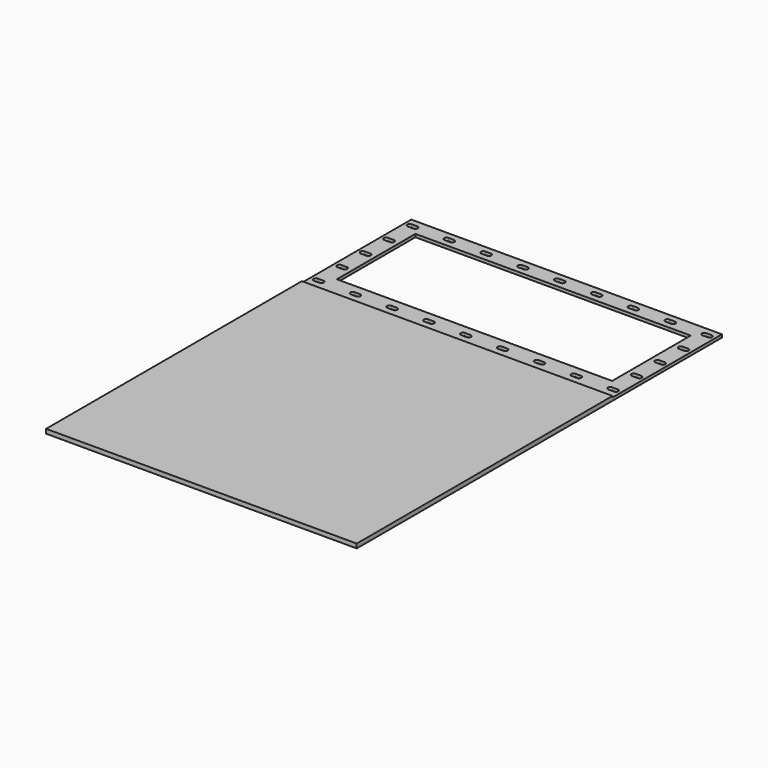
from build123d import *

# Parameters (mm, degrees)
F0_W     = 717.99958
F0_H     = 738.954157
F1_DEPTH = 10.000005
F0_H_2   = 316.045765
F0_W_2   = 636.27
F0_H_3   = 227.04425
F2_DEPTH = 6.9088


with BuildPart() as f1:
    # F0 (on Top) → F1 (new body)
    with BuildSketch(Plane.XY):
        with Locations((358.99979, 369.477079)):
            Rectangle(F0_W, F0_H)
    extrude(amount=F1_DEPTH)

    # F0 (on Top) → F2 (join)
    with BuildSketch(Plane.XY):
        with Locations((358.99979, 896.97704)):
            Rectangle(F0_W, F0_H_2)
        with BuildLine():
            Line((12.28979, 769.497657), (24.98979, 769.497657))
            ThreePointArc((24.98979, 769.497657), (30.54604, 763.941407), (24.98979, 758.385157))
            Line((24.98979, 758.385157), (12.28979, 758.385157))
            ThreePointArc((12.28979, 758.385157), (6.73354, 763.941407), (12.28979, 769.497657))
        make_face(mode=Mode.SUBTRACT)
        with BuildLine():
            ThreePointArc((97.37979, 758.385157), (91.82354, 763.941407), (97.37979, 769.497657))
            Line((97.37979, 769.497657), (110.07979, 769.497657))
            ThreePointArc((110.07979, 769.497657), (115.63604, 763.941407), (110.07979, 758.385157))
            Line((110.07979, 758.385157), (97.37979, 758.385157))
        make_face(mode=Mode.SUBTRACT)
        with BuildLine():
            Line((195.16979, 758.385157), (182.46979, 758.385157))
            ThreePointArc((182.46979, 758.385157), (176.91354, 763.941407), (182.46979, 769.497657))
            Line((182.46979, 769.497657), (195.16979, 769.497657))
            ThreePointArc((195.16979, 769.497657), (200.72604, 763.941407), (195.16979, 758.385157))
        make_face(mode=Mode.SUBTRACT)
        with BuildLine():
            ThreePointArc((267.55979, 758.385157), (262.00354, 763.941407), (267.55979, 769.497657))
            Line((267.55979, 769.497657), (280.25979, 769.497657))
            ThreePointArc((280.25979, 769.497657), (285.81604, 763.941407), (280.25979, 758.385157))
            Line((280.25979, 758.385157), (267.55979, 758.385157))
        make_face(mode=Mode.SUBTRACT)
        with BuildLine():
            ThreePointArc((24.98979, 837.363282), (30.54604, 831.807032), (24.98979, 826.250782))
            Line((24.98979, 826.250782), (12.28979, 826.250782))
            ThreePointArc((12.28979, 826.250782), (6.73354, 831.807032), (12.28979, 837.363282))
            Line((12.28979, 837.363282), (24.98979, 837.363282))
        make_face(mode=Mode.SUBTRACT)
        with BuildLine():
            Line((12.28979, 905.228907), (24.98979, 905.228907))
            ThreePointArc((24.98979, 905.228907), (30.54604, 899.672657), (24.98979, 894.116407))
            Line((24.98979, 894.116407), (12.28979, 894.116407))
            ThreePointArc((12.28979, 894.116407), (6.73354, 899.672657), (12.28979, 905.228907))
        make_face(mode=Mode.SUBTRACT)
        with BuildLine():
            Line((12.28979, 973.094532), (24.98979, 973.094532))
            ThreePointArc((24.98979, 973.094532), (30.54604, 967.538282), (24.98979, 961.982032))
            Line((24.98979, 961.982032), (12.28979, 961.982032))
            ThreePointArc((12.28979, 961.982032), (6.73354, 967.538282), (12.28979, 973.094532))
        make_face(mode=Mode.SUBTRACT)
        with BuildLine():
            ThreePointArc((12.28979, 1029.847657), (6.73354, 1035.403907), (12.28979, 1040.960157))
            Line((12.28979, 1040.960157), (24.98979, 1040.960157))
            ThreePointArc((24.98979, 1040.960157), (30.54604, 1035.403907), (24.98979, 1029.847657))
            Line((24.98979, 1029.847657), (12.28979, 1029.847657))
        make_face(mode=Mode.SUBTRACT)
        with BuildLine():
            Line((97.37979, 1040.960157), (110.07979, 1040.960157))
            ThreePointArc((110.07979, 1040.960157), (115.63604, 1035.403907), (110.07979, 1029.847657))
            Line((110.07979, 1029.847657), (97.37979, 1029.847657))
            ThreePointArc((97.37979, 1029.847657), (91.82354, 1035.403907), (97.37979, 1040.960157))
        make_face(mode=Mode.SUBTRACT)
        with BuildLine():
            ThreePointArc((195.16979, 1040.960157), (200.72604, 1035.403907), (195.16979, 1029.847657))
            Line((195.16979, 1029.847657), (182.46979, 1029.847657))
            ThreePointArc((182.46979, 1029.847657), (176.91354, 1035.403907), (182.46979, 1040.960157))
            Line((182.46979, 1040.960157), (195.16979, 1040.960157))
        make_face(mode=Mode.SUBTRACT)
        with BuildLine():
            ThreePointArc((267.55979, 1029.847657), (262.00354, 1035.403907), (267.55979, 1040.960157))
            Line((267.55979, 1040.960157), (280.25979, 1040.960157))
            ThreePointArc((280.25979, 1040.960157), (285.81604, 1035.403907), (280.25979, 1029.847657))
            Line((280.25979, 1029.847657), (267.55979, 1029.847657))
        make_face(mode=Mode.SUBTRACT)
        with BuildLine():
            ThreePointArc((352.64979, 758.385157), (347.09354, 763.941407), (352.64979, 769.497657))
            Line((352.64979, 769.497657), (365.34979, 769.497657))
            ThreePointArc((365.34979, 769.497657), (370.90604, 763.941407), (365.34979, 758.385157))
            Line((365.34979, 758.385157), (352.64979, 758.385157))
        make_face(mode=Mode.SUBTRACT)
        with BuildLine():
            Line((437.73979, 769.497657), (450.43979, 769.497657))
            ThreePointArc((450.43979, 769.497657), (455.99604, 763.941407), (450.43979, 758.385157))
            Line((450.43979, 758.385157), (437.73979, 758.385157))
            ThreePointArc((437.73979, 758.385157), (432.18354, 763.941407), (437.73979, 769.497657))
        make_face(mode=Mode.SUBTRACT)
        with BuildLine():
            Line((535.52979, 758.385157), (522.82979, 758.385157))
            ThreePointArc((522.82979, 758.385157), (517.27354, 763.941407), (522.82979, 769.497657))
            Line((522.82979, 769.497657), (535.52979, 769.497657))
            ThreePointArc((535.52979, 769.497657), (541.08604, 763.941407), (535.52979, 758.385157))
        make_face(mode=Mode.SUBTRACT)
        with BuildLine():
            Line((620.61979, 758.385157), (607.91979, 758.385157))
            ThreePointArc((607.91979, 758.385157), (602.36354, 763.941407), (607.91979, 769.497657))
            Line((607.91979, 769.497657), (620.61979, 769.497657))
            ThreePointArc((620.61979, 769.497657), (626.17604, 763.941407), (620.61979, 758.385157))
        make_face(mode=Mode.SUBTRACT)
        with BuildLine():
            Line((705.70979, 758.385157), (693.00979, 758.385157))
            ThreePointArc((693.00979, 758.385157), (687.45354, 763.941407), (693.00979, 769.497657))
            Line((693.00979, 769.497657), (705.70979, 769.497657))
            ThreePointArc((705.70979, 769.497657), (711.26604, 763.941407), (705.70979, 758.385157))
        make_face(mode=Mode.SUBTRACT)
        with Locations((358.99979, 902.450782)):
            Rectangle(F0_W_2, F0_H_3, mode=Mode.SUBTRACT)
        with BuildLine():
            Line((365.34979, 1029.847657), (352.64979, 1029.847657))
            ThreePointArc((352.64979, 1029.847657), (347.09354, 1035.403907), (352.64979, 1040.960157))
            Line((352.64979, 1040.960157), (365.34979, 1040.960157))
            ThreePointArc((365.34979, 1040.960157), (370.90604, 1035.403907), (365.34979, 1029.847657))
        make_face(mode=Mode.SUBTRACT)
        with BuildLine():
            ThreePointArc((450.43979, 1040.960157), (455.99604, 1035.403907), (450.43979, 1029.847657))
            Line((450.43979, 1029.847657), (437.73979, 1029.847657))
            ThreePointArc((437.73979, 1029.847657), (432.18354, 1035.403907), (437.73979, 1040.960157))
            Line((437.73979, 1040.960157), (450.43979, 1040.960157))
        make_face(mode=Mode.SUBTRACT)
        with BuildLine():
            Line((535.52979, 1029.847657), (522.82979, 1029.847657))
            ThreePointArc((522.82979, 1029.847657), (517.27354, 1035.403907), (522.82979, 1040.960157))
            Line((522.82979, 1040.960157), (535.52979, 1040.960157))
            ThreePointArc((535.52979, 1040.960157), (541.08604, 1035.403907), (535.52979, 1029.847657))
        make_face(mode=Mode.SUBTRACT)
        with BuildLine():
            ThreePointArc((693.00979, 826.250782), (687.45354, 831.807032), (693.00979, 837.363282))
            Line((693.00979, 837.363282), (705.70979, 837.363282))
            ThreePointArc((705.70979, 837.363282), (711.26604, 831.807032), (705.70979, 826.250782))
            Line((705.70979, 826.250782), (693.00979, 826.250782))
        make_face(mode=Mode.SUBTRACT)
        with BuildLine():
            ThreePointArc((693.00979, 894.116407), (687.45354, 899.672657), (693.00979, 905.228907))
            Line((693.00979, 905.228907), (705.70979, 905.228907))
            ThreePointArc((705.70979, 905.228907), (711.26604, 899.672657), (705.70979, 894.116407))
            Line((705.70979, 894.116407), (693.00979, 894.116407))
        make_face(mode=Mode.SUBTRACT)
        with BuildLine():
            ThreePointArc((607.91979, 1029.847657), (602.36354, 1035.403907), (607.91979, 1040.960157))
            Line((607.91979, 1040.960157), (620.61979, 1040.960157))
            ThreePointArc((620.61979, 1040.960157), (626.17604, 1035.403907), (620.61979, 1029.847657))
            Line((620.61979, 1029.847657), (607.91979, 1029.847657))
        make_face(mode=Mode.SUBTRACT)
        with BuildLine():
            ThreePointArc((693.00979, 961.982032), (687.45354, 967.538282), (693.00979, 973.094532))
            Line((693.00979, 973.094532), (705.70979, 973.094532))
            ThreePointArc((705.70979, 973.094532), (711.26604, 967.538282), (705.70979, 961.982032))
            Line((705.70979, 961.982032), (693.00979, 961.982032))
        make_face(mode=Mode.SUBTRACT)
        with BuildLine():
            Line((705.70979, 1029.847657), (693.00979, 1029.847657))
            ThreePointArc((693.00979, 1029.847657), (687.45354, 1035.403907), (693.00979, 1040.960157))
            Line((693.00979, 1040.960157), (705.70979, 1040.960157))
            ThreePointArc((705.70979, 1040.960157), (711.26604, 1035.403907), (705.70979, 1029.847657))
        make_face(mode=Mode.SUBTRACT)
    extrude(amount=F2_DEPTH)


solid = f1.part
